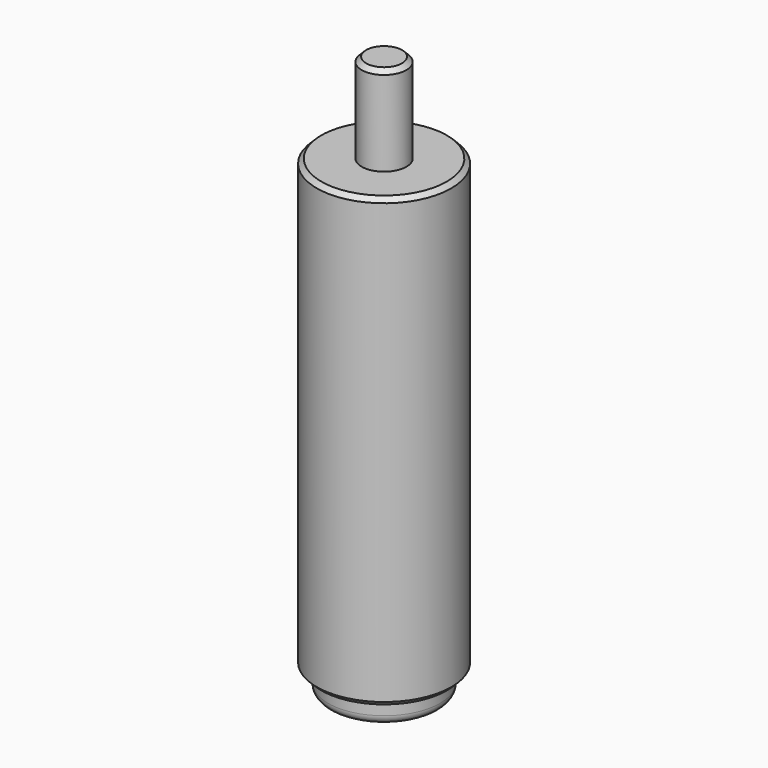
from build123d import *

# Parameters (mm, degrees)
F0_R     = 12.5
F1_DEPTH = 20
F3_R     = 15
F4_DEPTH = 100
F5_SIZE  = 1
F6_SIZE  = 1
F7_R     = 5
F8_DEPTH = 20
F9_SIZE  = 1
F10_R    = 2


with BuildPart() as f1:
    # F0 (on Top) → F1 (new body)
    with BuildSketch(Plane.XY):
        Circle(F0_R)
    extrude(amount=F1_DEPTH)

    # F3 (on offset) → F4 (join)
    with BuildSketch(Plane.XY.offset(5)):
        Circle(F3_R)
    extrude(amount=F4_DEPTH)

    # F5
    f5_edges = [f1.edges().sort_by_distance(p)[0] for p in [
        (-15, 0, 5),
    ]]
    chamfer(f5_edges, length=F5_SIZE)

    # F6
    f6_edges = [f1.edges().sort_by_distance(p)[0] for p in [
        (-15, 0, 105),
    ]]
    chamfer(f6_edges, length=F6_SIZE)

    # F7 (on face) → F8 (join)
    with BuildSketch(Plane.XY.offset(105)):
        Circle(F7_R)
    extrude(amount=F8_DEPTH)

    # F9
    f9_edges = [f1.edges().sort_by_distance(p)[0] for p in [
        (-5, 0, 125),
    ]]
    chamfer(f9_edges, length=F9_SIZE)

    # F10
    f10_edges = [f1.edges().sort_by_distance(p)[0] for p in [
        (-12.5, 0, 0),
    ]]
    fillet(f10_edges, radius=F10_R)


solid = f1.part
